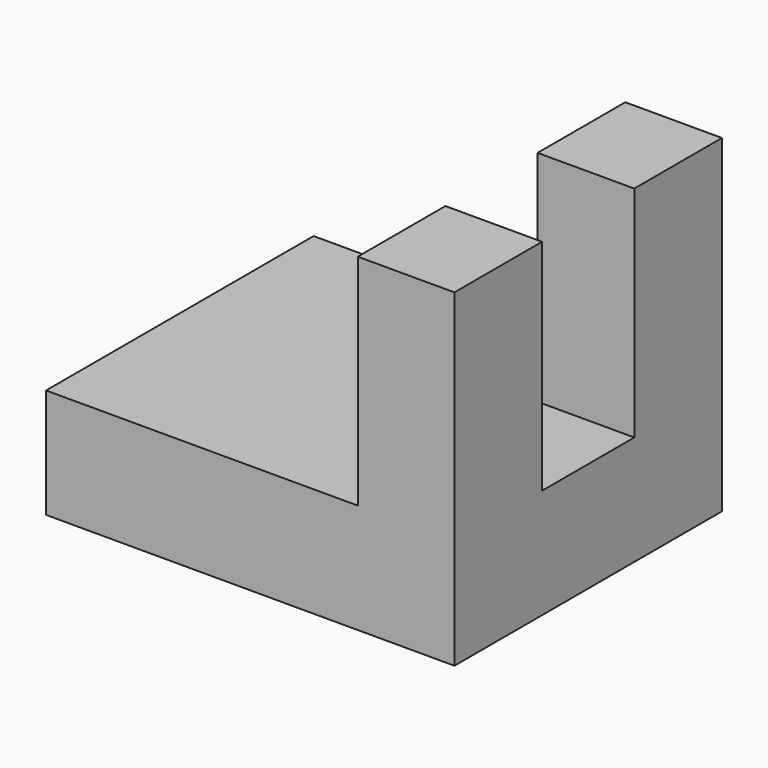
from build123d import *

# Parameters (mm, degrees)
F0_W     = 94.65469
F0_H     = 77.50969
F1_DEPTH = 25.4
F2_W     = 22.406332
F2_H     = 25.4
F3_DEPTH = 50.8


with BuildPart() as f1:
    # F0 (on Top) → F1 (new body)
    with BuildSketch(Plane.XY):
        with Locations((2.143124, 0.357186)):
            Rectangle(F0_W, F0_H)
    extrude(amount=F1_DEPTH)

    # F2 (on face) → F3 (join)
    with BuildSketch(Plane.XY.offset(25.4)):
        Polygon((49.470469, 13.712031), (49.470469, 39.112031), (30.480001, 39.112031), (27.064137, 39.112031), (27.064137, 13.712031), align=None)
        with Locations((38.267303, -25.697659)):
            Rectangle(F2_W, F2_H)
    extrude(amount=F3_DEPTH)


solid = f1.part
